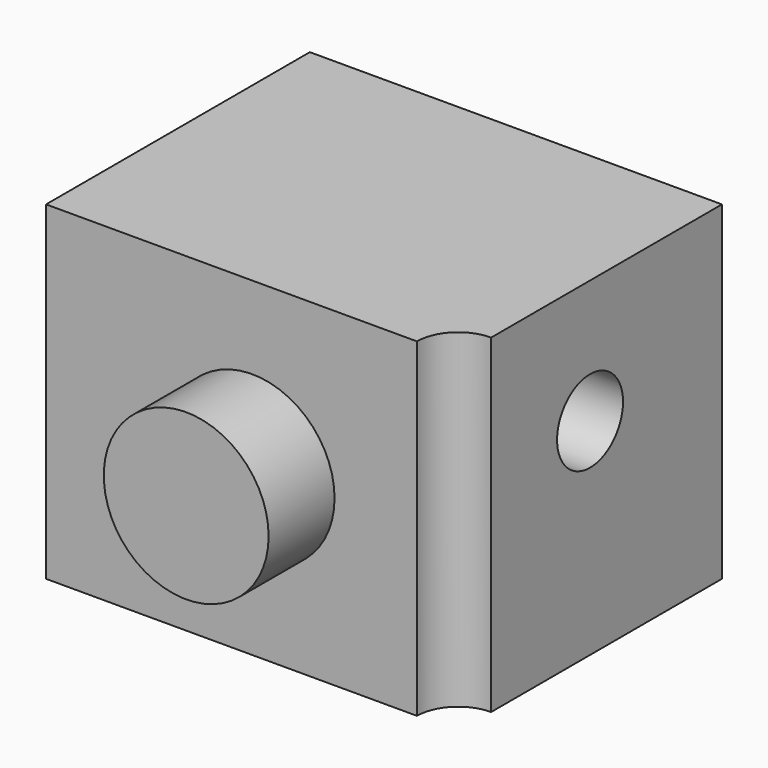
from build123d import *

# Parameters (mm, degrees)
F0_W     = 5
F0_H     = 4
F1_DEPTH = 4
F2_R     = 1
F3_DEPTH = 1
F5_DEPTH = 25
F6_R     = 0.5
F7_DEPTH = 5


with BuildPart() as f1:
    # F0 (on Top) → F1 (new body)
    with BuildSketch(Plane.XY):
        with Locations((2.5, 2)):
            Rectangle(F0_W, F0_H)
    extrude(amount=F1_DEPTH)

    # F2 (on face) → F3 (join)
    with BuildSketch(Plane.XZ):
        with Locations((2.5, 2)):
            Circle(F2_R)
    extrude(amount=F3_DEPTH)

    # F4 (on face) → F5 (cut)
    with BuildSketch(Plane.XY.offset(4)):
        with BuildLine():
            Line((5, 0), (5, 0.5))
            ThreePointArc((5, 0.5), (4.646447, 0.353553), (4.5, 0))
            Line((4.5, 0), (5, 0))
        make_face()
        with BuildLine():
            ThreePointArc((4.5, 0), (5, -0.5), (5.5, 0))
            ThreePointArc((5.5, 0), (5.353553, 0.353553), (5, 0.5))
            Line((5, 0.5), (5, 0))
            Line((5, 0), (4.5, 0))
        make_face()
    extrude(amount=-F5_DEPTH, mode=Mode.SUBTRACT)

    # F6 (on face) → F7 (cut)
    with BuildSketch(Plane.YZ.offset(5)):
        with Locations((2, 2.5)):
            Circle(F6_R)
    extrude(amount=-F7_DEPTH, mode=Mode.SUBTRACT)


solid = f1.part
